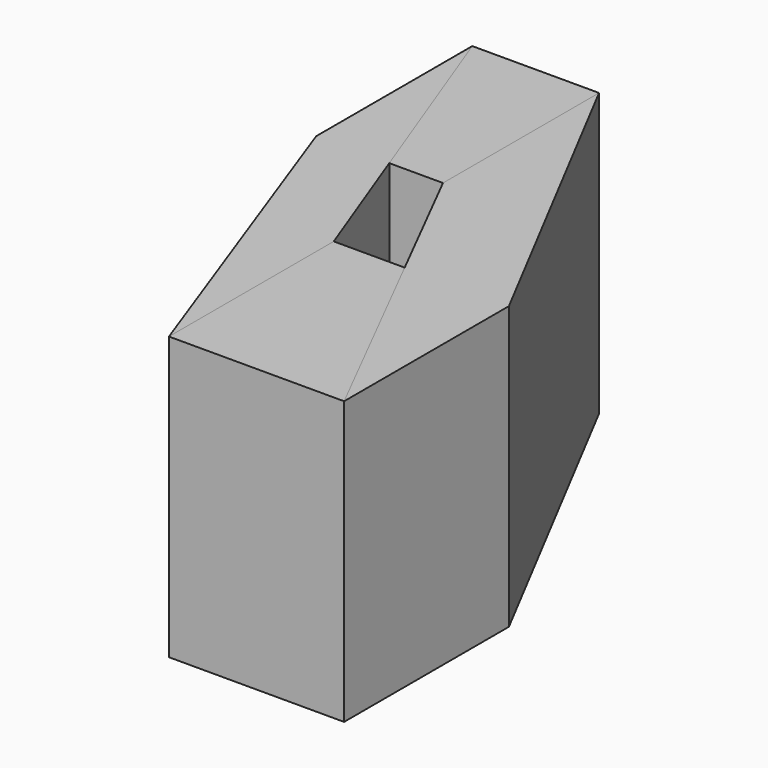
from build123d import *

# Parameters (mm, degrees)
F0_W       = 29.82192114
F0_H       = 35.0757315755
F1_DEPTH   = 48.0683129281
F0_W_2     = 21.5881094337
F0_H_2     = 33.2140550017
F1_FACE_W  = 33.2140550017
F1_FACE_H  = 48.0683129281
F1_FACE1_W = 35.0757315755
F1_FACE1_H = 48.0683129281
F1_FACE2_W = 33.2140550017
F1_FACE2_H = 48.0683129281
F1_FACE3_W = 35.0757315755
F1_FACE3_H = 48.0683129281


with BuildPart() as f1:
    # F0 (on Top) → F1 (new body)
    with BuildSketch(Plane.XY):
        with Locations((35.6653165072, -17.5378657877)):
            Rectangle(F0_W, F0_H)
    extrude(amount=F1_DEPTH)


with BuildPart() as f1b:
    # F0 (on Top) → F1, piece 2 (new body)
    with BuildSketch(Plane.XY):
        with Locations((10.7940547168, 38.8156585395)):
            Rectangle(F0_W_2, F0_H_2)
    extrude(amount=F1_DEPTH)


with BuildPart() as f2:
    # F1_face (on face) → F2 section 0
    with BuildSketch(Plane(origin=(21.5881094337, 38.8156585395, 24.034156464), x_dir=(0, 1, 0), z_dir=(1, 0, 0))):
        Rectangle(F1_FACE_W, F1_FACE_H)
    # F1_face1 (on face) → F2 section 1
    with BuildSketch(Plane(origin=(50.5762770772, -17.5378657877, 24.034156464), x_dir=(0, 1, 0), z_dir=(1, 0, 0))):
        Rectangle(F1_FACE1_W, F1_FACE1_H)
    loft()


with BuildPart() as f3:
    # F1_face2 (on face) → F3 section 0
    with BuildSketch(Plane(origin=(0, 38.8156585395, 24.034156464), x_dir=(0, -1, 0), z_dir=(-1, 0, 0))):
        Rectangle(F1_FACE2_W, F1_FACE2_H)
    # F1_face3 (on face) → F3 section 1
    with BuildSketch(Plane(origin=(20.7543559372, -17.5378657877, 24.034156464), x_dir=(0, -1, 0), z_dir=(-1, 0, 0))):
        Rectangle(F1_FACE3_W, F1_FACE3_H)
    loft()


solid = Compound([f1.part, f1b.part, f2.part, f3.part])
